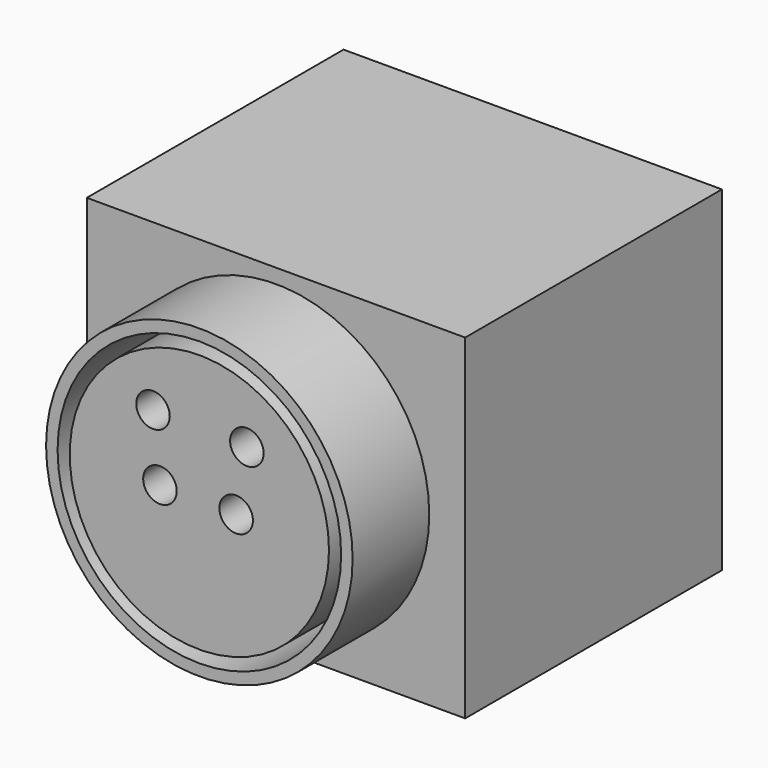
from build123d import *

# Parameters (mm, degrees)
F0_W     = 15.8
F0_H     = 14
F1_DEPTH = 13.4
F2_R     = 6.4
F3_DEPTH = 4
F4_R     = 5.920321
F4_R_2   = 5.413043
F5_DEPTH = 7
F6_R     = 0.7
F7_DEPTH = 10


with BuildPart() as f1:
    # F0 (on Front) → F1 (new body)
    with BuildSketch(Plane.XZ):
        with Locations((7.9, 7)):
            Rectangle(F0_W, F0_H)
    extrude(amount=F1_DEPTH)

    # F2 (on face) → F3 (join)
    with BuildSketch(Plane.XZ.offset(13.4)):
        with Locations((7.9, 7)):
            Circle(F2_R)
    extrude(amount=F3_DEPTH)

    # F4 (on face) → F5 (cut)
    with BuildSketch(Plane.XZ.offset(17.4)):
        with Locations((7.9, 7)):
            Circle(F4_R)
        with Locations((7.9, 7)):
            Circle(F4_R_2, mode=Mode.SUBTRACT)
    extrude(amount=-F5_DEPTH, mode=Mode.SUBTRACT)

    # F6 (on face) → F7 (cut)
    with BuildSketch(Plane.XZ.offset(17.4)):
        with Locations((5.964432, 9.765608)):
            Circle(F6_R)
        with Locations((9.884015, 9.676018)):
            Circle(F6_R)
        with Locations((6.255601, 7.100292)):
            Circle(F6_R)
        with Locations((9.436062, 7.055497)):
            Circle(F6_R)
    extrude(amount=-F7_DEPTH, mode=Mode.SUBTRACT)


solid = f1.part
